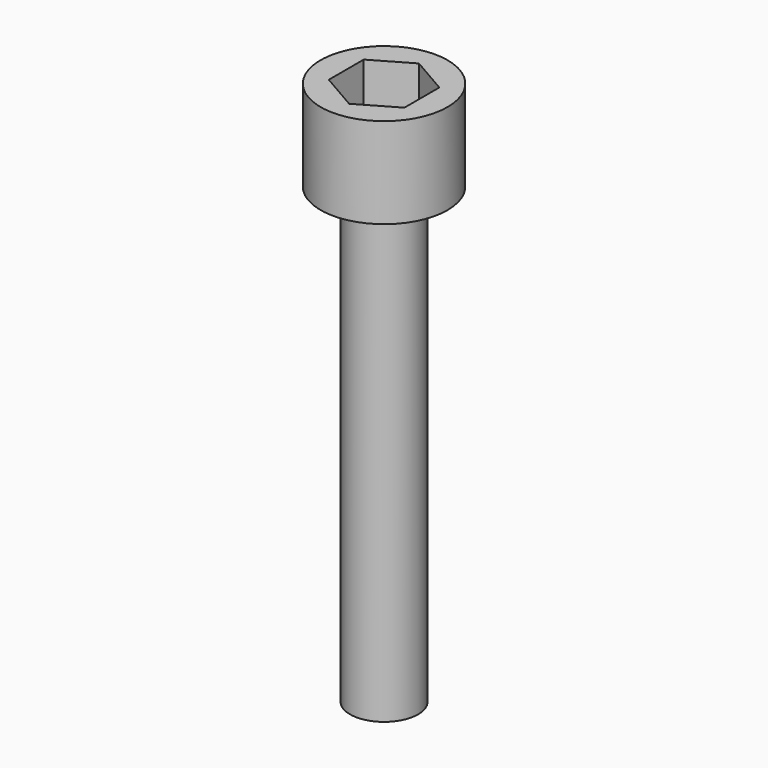
from build123d import *

# Parameters (mm, degrees)
F0_R     = 4.7625
F1_DEPTH = 63.5
F2_R     = 8.89
F3_DEPTH = 12.7
F5_DEPTH = 9.5377


with BuildPart() as f1:
    # F0 (on Top) → F1 (new body)
    with BuildSketch(Plane.XY):
        Circle(F0_R)
    extrude(amount=-F1_DEPTH)

    # F2 (on Top) → F3 (join)
    with BuildSketch(Plane.XY):
        Circle(F2_R)
    extrude(amount=F3_DEPTH)

    # F4 (on face) → F5 (cut)
    with BuildSketch(Plane.XY.offset(12.7)):
        Polygon((5.293086, -3.055965), (5.293086, 3.055965), (0, 6.111929), (-5.293086, 3.055965), (-5.293086, -3.055965), (0, -6.111929), align=None)
    extrude(amount=-F5_DEPTH, mode=Mode.SUBTRACT)


solid = f1.part
